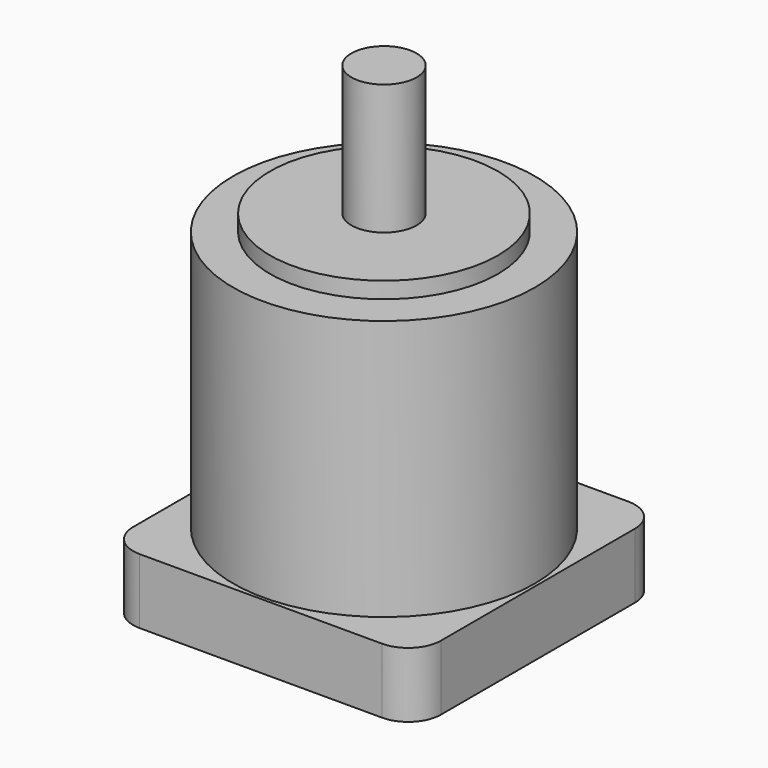
from build123d import *

# Parameters (mm, degrees)
F0_R     = 29.412961
F1_DEPTH = 12.7
F0_R_2   = 22.225
F2_DEPTH = 63.5
F0_R_3   = 6.35
F3_DEPTH = 66.675
F4_DEPTH = 92.075
F5_DEPTH = 25.4


with BuildPart() as f1:
    # F0 (on Top) → F1 (new body)
    with BuildSketch(Plane.XY):
        with BuildLine():
            Line((-23.65, -30), (23.65, -30))
            ThreePointArc((23.65, -30), (28.140128, -28.140128), (30, -23.65))
            Line((30, -23.65), (30, 23.65))
            ThreePointArc((30, 23.65), (28.140128, 28.140128), (23.65, 30))
            Line((23.65, 30), (-23.65, 30))
            ThreePointArc((-23.65, 30), (-28.140128, 28.140128), (-30, 23.65))
            Line((-30, 23.65), (-30, -23.65))
            ThreePointArc((-30, -23.65), (-28.140128, -28.140128), (-23.65, -30))
        make_face()
        Circle(F0_R, mode=Mode.SUBTRACT)
    extrude(amount=F1_DEPTH)

    # F0 (on Top) → F2 (join)
    with BuildSketch(Plane.XY):
        Circle(F0_R)
        Circle(F0_R_2, mode=Mode.SUBTRACT)
    extrude(amount=F2_DEPTH)

    # F0 (on Top) → F3 (join)
    with BuildSketch(Plane.XY):
        Circle(F0_R_2)
        Circle(F0_R_3, mode=Mode.SUBTRACT)
    extrude(amount=F3_DEPTH)

    # F0 (on Top) → F4 (join)
    with BuildSketch(Plane.XY):
        Circle(F0_R_3)
    extrude(amount=F4_DEPTH)

    # F0 (on Top) → F5 (cut)
    with BuildSketch(Plane.XY):
        Circle(F0_R_3)
    extrude(amount=F5_DEPTH, mode=Mode.SUBTRACT)


solid = f1.part
